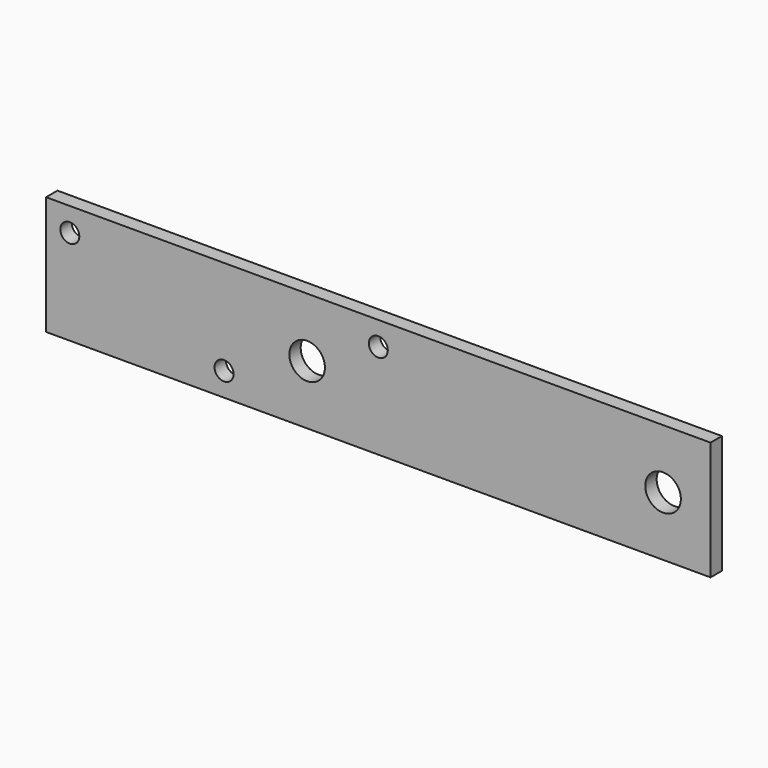
from build123d import *

# Parameters (mm, degrees)
F0_W     = 140
F0_H     = 25
F0_R     = 2
F0_R_2   = 3.75
F1_DEPTH = 3


with BuildPart() as f1:
    # F0 (on Front) → F1 (new body)
    with BuildSketch(Plane.XZ):
        Rectangle(F0_W, F0_H)
        with Locations((-32.5, -7.5)):
            Circle(F0_R, mode=Mode.SUBTRACT)
        with Locations((-15, 0)):
            Circle(F0_R_2, mode=Mode.SUBTRACT)
        with Locations((-65, 7.5)):
            Circle(F0_R, mode=Mode.SUBTRACT)
        with Locations((60, 0)):
            Circle(F0_R_2, mode=Mode.SUBTRACT)
        with Locations((0, 7.5)):
            Circle(F0_R, mode=Mode.SUBTRACT)
    extrude(amount=F1_DEPTH)


solid = f1.part
